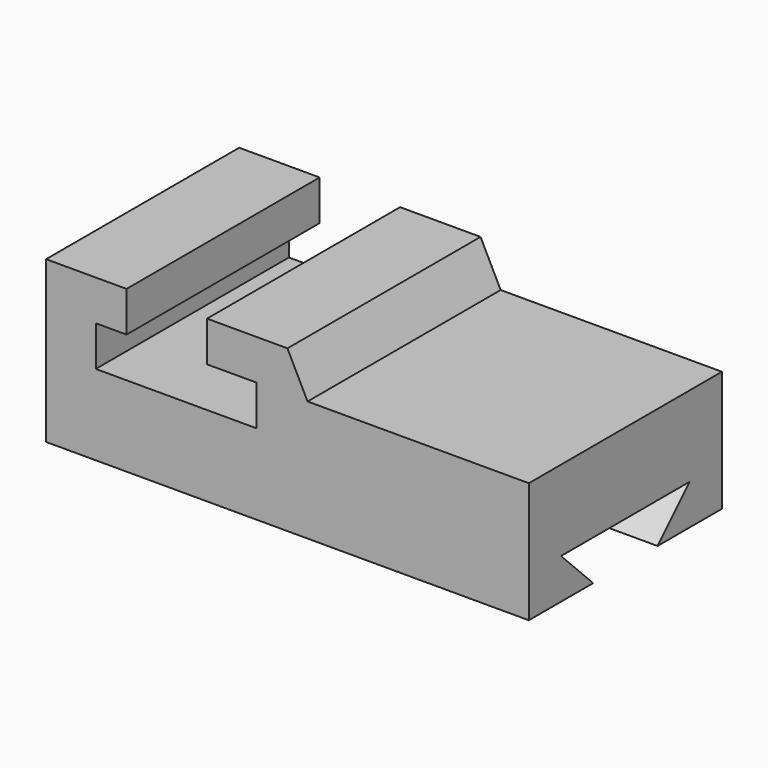
from build123d import *

# Parameters (mm, degrees)
F1_DEPTH = 76.2
F3_DEPTH = 209.296


with BuildPart() as f1:
    # F0 (on Front) → F1 (new body)
    with BuildSketch(Plane.XZ):
        Polygon((0, 50.8), (0, 0), (152.4, 0), (152.4, 38.1), (82.549035, 38.1), (76.2, 50.8), (50.8, 50.8), (50.8, 38.1), (66.490582, 38.1), (66.490582, 25.4), (15.690582, 25.4), (15.690582, 38.1), (25.4, 38.1), (25.4, 50.8), align=None)
    extrude(amount=F1_DEPTH)

    # F2 (on face) → F3 (cut)
    with BuildSketch(Plane.YZ.offset(152.4)):
        Polygon((-63.5, 12.7), (-50.803836, 0), (-25.396164, 0), (-12.7, 12.7), align=None)
    extrude(amount=-F3_DEPTH, mode=Mode.SUBTRACT)


solid = f1.part
